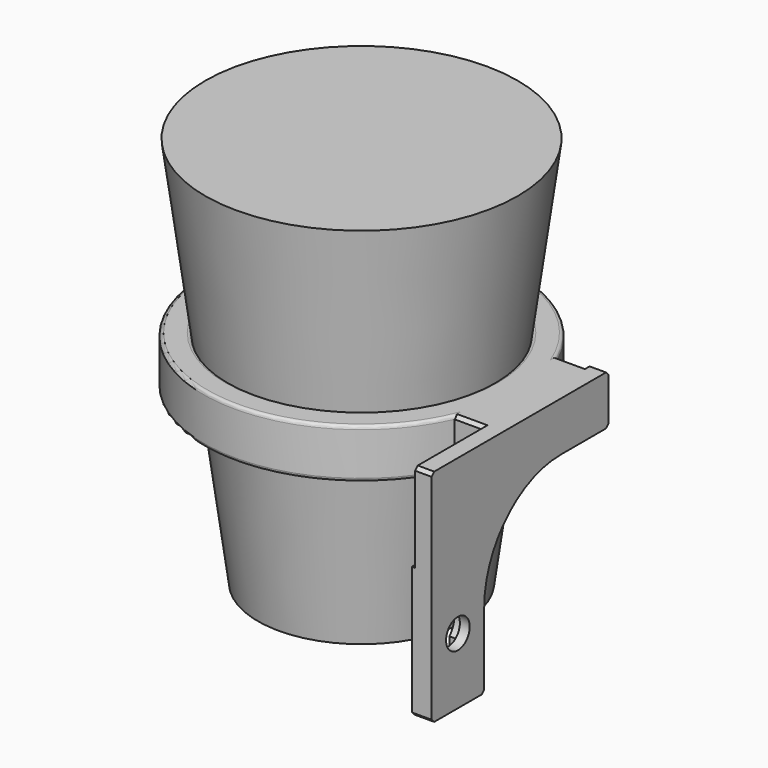
from build123d import *

# Parameters (mm, degrees)
BOX008_W               = 38
BOX008_H               = 8.5
BOX008_DEPTH           = 10
CYLINDER003_R          = 6.13
CYLINDER003_DEPTH      = 10
CYLINDER002_R          = 4.5
CYLINDER002_DEPTH      = 10
BOX007_W               = 40
BOX007_H               = 20
BOX007_DEPTH           = 6
CUT009_PLACEMENT_ANGLE = 90
CHAMFER005_SIZE        = 1
BOX005_W               = 38
BOX005_H               = 8.5
BOX005_DEPTH           = 10
CYLINDER001_R          = 6.13
CYLINDER001_DEPTH      = 10
CYLINDER_R             = 4.5
CYLINDER_DEPTH         = 10
BOX004_W               = 40
BOX004_H               = 20
BOX004_DEPTH           = 6
CUT005_PLACEMENT_ANGLE = 90
CHAMFER_SIZE           = 1
TUBE_R                 = 48
TUBE_R_2               = 38
TUBE_DEPTH             = 15
FILLET_R               = 1
BOX003_W               = 10.4
BOX003_H               = 58.22
BOX003_DEPTH           = 52
FILLET001_R            = 29.11
BOX002_W               = 6
BOX002_H               = 20
BOX002_DEPTH           = 40
BOX_W                  = 5
BOX_H                  = 67.29
BOX_DEPTH              = 67
CHAMFER004_SIZE        = 1
BOX006_W               = 9.3
BOX006_H               = 39
BOX006_DEPTH           = 15
CHAMFER003_SIZE        = 1


with BuildPart() as cup:
    # Cone001 → Cone001 (revolve)
    with BuildSketch(Plane(origin=(-3, 0, 0), x_dir=(1, 0, 0), z_dir=(0, -1, 0))):
        Polygon((0, 0), (31.5, 0), (47.5, 119), (0, 119), align=None)
    revolve(axis=Axis((-3, 0, 0), (0, 0, 1)))


with BuildPart() as cube008:
    # Box008 → Box008 (new body)
    with BuildSketch(Plane(origin=(-19, -4.25, 3), x_dir=(1, 0, 0), z_dir=(0, 0, 1))):
        with Locations((19, 4.25)):
            Rectangle(BOX008_W, BOX008_H)
    extrude(amount=BOX008_DEPTH)


with BuildPart() as cylinder003:
    # Cylinder003 → Cylinder003 (new body)
    with BuildSketch(Plane.XY.offset(3)):
        Circle(CYLINDER003_R)
    extrude(amount=CYLINDER003_DEPTH)


with BuildPart() as cylinder002:
    # Cylinder002 → Cylinder002 (new body)
    with BuildSketch(Plane.XY):
        Circle(CYLINDER002_R)
    extrude(amount=CYLINDER002_DEPTH)


with BuildPart() as obj1:
    # Box007 → Box007 (new body)
    with BuildSketch(Plane(origin=(-20, -10, 0), x_dir=(1, 0, 0), z_dir=(0, 0, 1))):
        with Locations((20, 10)):
            Rectangle(BOX007_W, BOX007_H)
    extrude(amount=BOX007_DEPTH)

    # Cut007: cut Cylinder002
    add(cylinder002.part, mode=Mode.SUBTRACT)

    # Cut008: cut Cylinder003
    add(cylinder003.part, mode=Mode.SUBTRACT)

    # Cut009: cut Cube008
    add(cube008.part, mode=Mode.SUBTRACT)


with BuildPart() as obj1_1:
    # Cut009 placement: moved
    add(obj1.part.moved(Location((55.1, -36, 20))).rotate(Axis((55.1, -36, 20), (0, -1, 0)), CUT009_PLACEMENT_ANGLE))

    # Chamfer005
    chamfer005_edges = [obj1_1.edges().sort_by_distance(p)[0] for p in [
        (52.1, -46, 0),
        (52.1, -26, 0),
    ]]
    chamfer(chamfer005_edges, length=CHAMFER005_SIZE)


with BuildPart() as cube005:
    # Box005 → Box005 (new body)
    with BuildSketch(Plane(origin=(-19, -4.25, 3), x_dir=(1, 0, 0), z_dir=(0, 0, 1))):
        with Locations((19, 4.25)):
            Rectangle(BOX005_W, BOX005_H)
    extrude(amount=BOX005_DEPTH)


with BuildPart() as cylinder001:
    # Cylinder001 → Cylinder001 (new body)
    with BuildSketch(Plane.XY.offset(3)):
        Circle(CYLINDER001_R)
    extrude(amount=CYLINDER001_DEPTH)


with BuildPart() as cylinder:
    # Cylinder → Cylinder (new body)
    with BuildSketch(Plane.XY):
        Circle(CYLINDER_R)
    extrude(amount=CYLINDER_DEPTH)


with BuildPart() as servo_mount:
    # Box004 → Box004 (new body)
    with BuildSketch(Plane(origin=(-20, -10, 0), x_dir=(1, 0, 0), z_dir=(0, 0, 1))):
        with Locations((20, 10)):
            Rectangle(BOX004_W, BOX004_H)
    extrude(amount=BOX004_DEPTH)

    # Cut003: cut Cylinder
    add(cylinder.part, mode=Mode.SUBTRACT)

    # Cut004: cut Cylinder001
    add(cylinder001.part, mode=Mode.SUBTRACT)

    # Cut005: cut Cube005
    add(cube005.part, mode=Mode.SUBTRACT)


with BuildPart() as servo_mount_1:
    # Cut005 placement: moved
    add(servo_mount.part.moved(Location((55.1, -36, 20))).rotate(Axis((55.1, -36, 20), (0, -1, 0)), CUT005_PLACEMENT_ANGLE))

    # Chamfer
    chamfer_edges = [servo_mount_1.edges().sort_by_distance(p)[0] for p in [
        (52.1, -46, 0),
        (52.1, -26, 0),
    ]]
    chamfer(chamfer_edges, length=CHAMFER_SIZE)


with BuildPart() as cup_mold:
    # Cone → Cone (revolve)
    with BuildSketch(Plane.XZ):
        Polygon((0, 0), (31.5, 0), (47.5, 119), (0, 119), align=None)
    revolve(axis=Axis((0, 0, 0), (0, 0, 1)))


with BuildPart() as rounded_holder:
    # Tube → Tube (new body)
    with BuildSketch(Plane.XY.offset(52)):
        Circle(TUBE_R)
        Circle(TUBE_R_2, mode=Mode.SUBTRACT)
    extrude(amount=TUBE_DEPTH)

    # Cut: cut Cup Mold
    add(cup_mold.part, mode=Mode.SUBTRACT)

    # Fillet
    fillet_edges = [rounded_holder.edges().sort_by_distance(p)[0] for p in [
        (-48, 0, 67),
        (-48, 0, 52),
        (-40.508403, 0, 67),
    ]]
    fillet(fillet_edges, radius=FILLET_R)


with BuildPart() as rounded_holder_1:
    # Fillet placement: moved
    add(rounded_holder.part.moved(Location((-3, 0, 0))))


with BuildPart() as fillet001:
    # Box003 → Box003 (new body)
    with BuildSketch(Plane(origin=(45.7, -26, 0), x_dir=(1, 0, 0), z_dir=(0, 0, 1))):
        with Locations((5.2, 29.11)):
            Rectangle(BOX003_W, BOX003_H)
    extrude(amount=BOX003_DEPTH)

    # Fillet001
    fillet001_edges = [fillet001.edges().sort_by_distance(p)[0] for p in [
        (50.9, -26, 52),
    ]]
    fillet(fillet001_edges, radius=FILLET001_R)


with BuildPart() as cube002:
    # Box002 → Box002 (new body)
    with BuildSketch(Plane(origin=(50.1, -46, 0), x_dir=(1, 0, 0), z_dir=(0, 0, 1))):
        with Locations((3, 10)):
            Rectangle(BOX002_W, BOX002_H)
    extrude(amount=BOX002_DEPTH)


with BuildPart() as chamfer004:
    # Box → Box (new body)
    with BuildSketch(Plane(origin=(50.1, -46, 0), x_dir=(1, 0, 0), z_dir=(0, 0, 1))):
        with Locations((2.5, 33.645)):
            Rectangle(BOX_W, BOX_H)
    extrude(amount=BOX_DEPTH)

    # Cut001: cut Cube002
    add(cube002.part, mode=Mode.SUBTRACT)

    # Cut006: cut Fillet001
    add(fillet001.part, mode=Mode.SUBTRACT)

    # Chamfer004
    chamfer004_edges = [chamfer004.edges().sort_by_distance(p)[0] for p in [
        (52.6, -46, 67),
        (52.6, 21.29, 67),
        (52.6, 21.29, 52),
    ]]
    chamfer(chamfer004_edges, length=CHAMFER004_SIZE)


with BuildPart() as complete_cup_holder:
    # Box006 → Box006 (new body)
    with BuildSketch(Plane(origin=(40.8, -19.5, 52), x_dir=(1, 0, 0), z_dir=(0, 0, 1))):
        with Locations((4.65, 19.5)):
            Rectangle(BOX006_W, BOX006_H)
    extrude(amount=BOX006_DEPTH)

    # Chamfer003
    chamfer003_edges = [complete_cup_holder.edges().sort_by_distance(p)[0] for p in [
        (45.45, -19.5, 52),
        (45.45, -19.5, 67),
        (45.45, 19.5, 52),
        (45.45, 19.5, 67),
    ]]
    chamfer(chamfer003_edges, length=CHAMFER003_SIZE)

    # Fusion: union Rounded Holder, Chamfer004
    add(rounded_holder_1.part)
    add(chamfer004.part)

    # Fusion001: union Servo Mount
    add(servo_mount_1.part)


solid = Compound([cup.part, obj1_1.part, complete_cup_holder.part])
